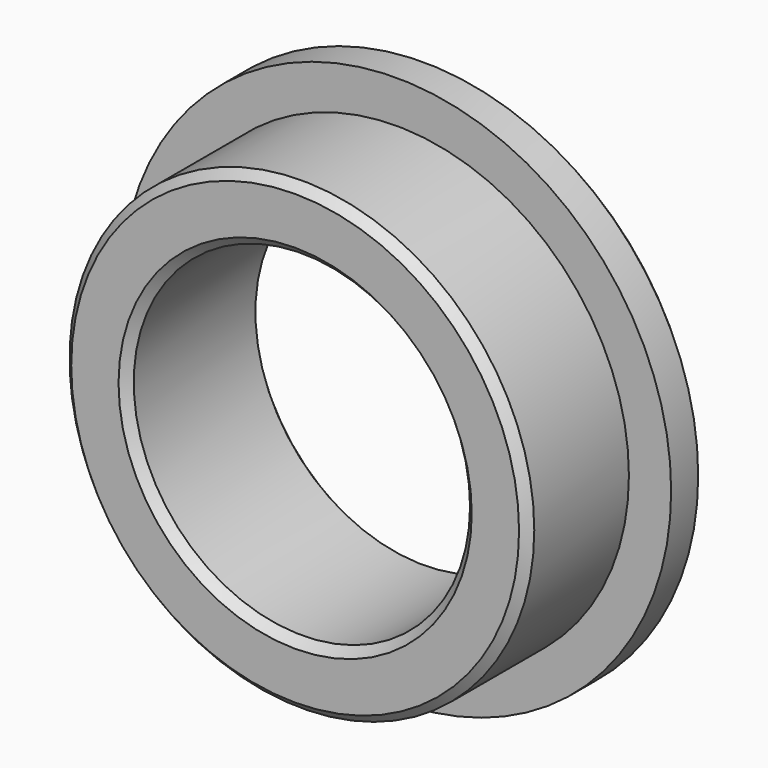
from build123d import *

# Parameters (mm, degrees)
F0_R     = 32.5
F1_DEPTH = 5
F2_R     = 27.5
F3_DEPTH = 15
F4_R     = 19.9
F5_DEPTH = 25
F6_SIZE  = 1


with BuildPart() as f1:
    # F0 (on Front) → F1 (new body)
    with BuildSketch(Plane.XZ):
        Circle(F0_R)
    extrude(amount=F1_DEPTH)

    # F2 (on face) → F3 (join)
    with BuildSketch(Plane.XZ.offset(5)):
        Circle(F2_R)
    extrude(amount=F3_DEPTH)

    # F4 (on face) → F5 (cut)
    with BuildSketch(Plane.XZ.offset(20)):
        Circle(F4_R)
    extrude(amount=-F5_DEPTH, mode=Mode.SUBTRACT)

    # F6
    f6_edges = [f1.edges().sort_by_distance(p)[0] for p in [
        (-32.5, 0, 0),
        (-27.5, -20, 0),
        (-19.9, -20, 0),
        (-19.9, 0, 0),
    ]]
    chamfer(f6_edges, length=F6_SIZE)


solid = f1.part
